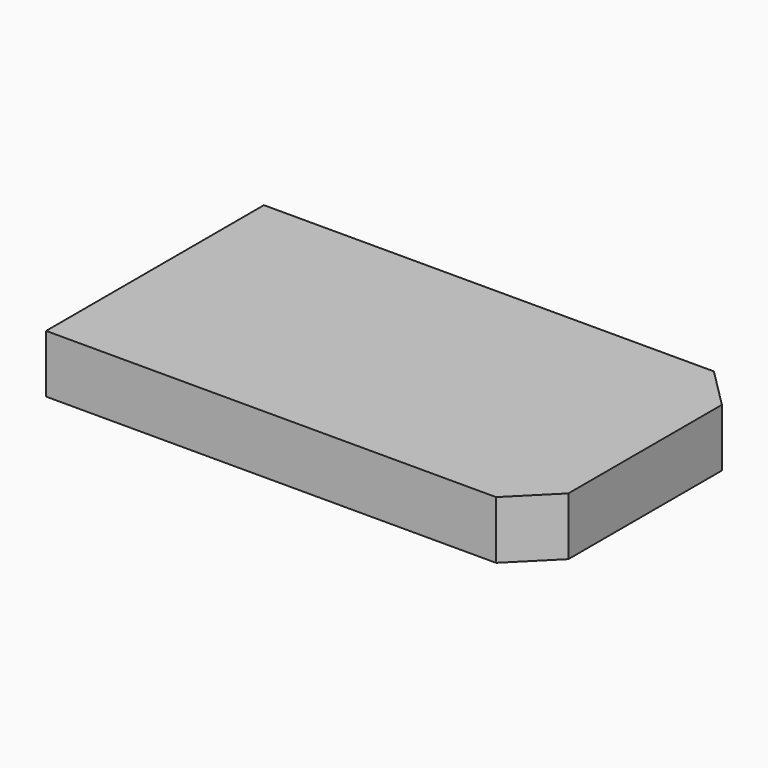
from build123d import *

# Parameters (mm, degrees)
F0_W     = 36.58
F0_H     = 20.32
F1_DEPTH = 4.32
F2_SIZE  = 3


with BuildPart() as f1:
    # F0 (on Top) → F1 (new body)
    with BuildSketch(Plane.XY):
        with Locations((-2.424853, 0.093992)):
            Rectangle(F0_W, F0_H)
    extrude(amount=F1_DEPTH)

    # F2
    f2_edges = [f1.edges().sort_by_distance(p)[0] for p in [
        (15.865147, 10.253992, 2.16),
        (15.865147, -10.066008, 2.16),
    ]]
    chamfer(f2_edges, length=F2_SIZE)


solid = f1.part
